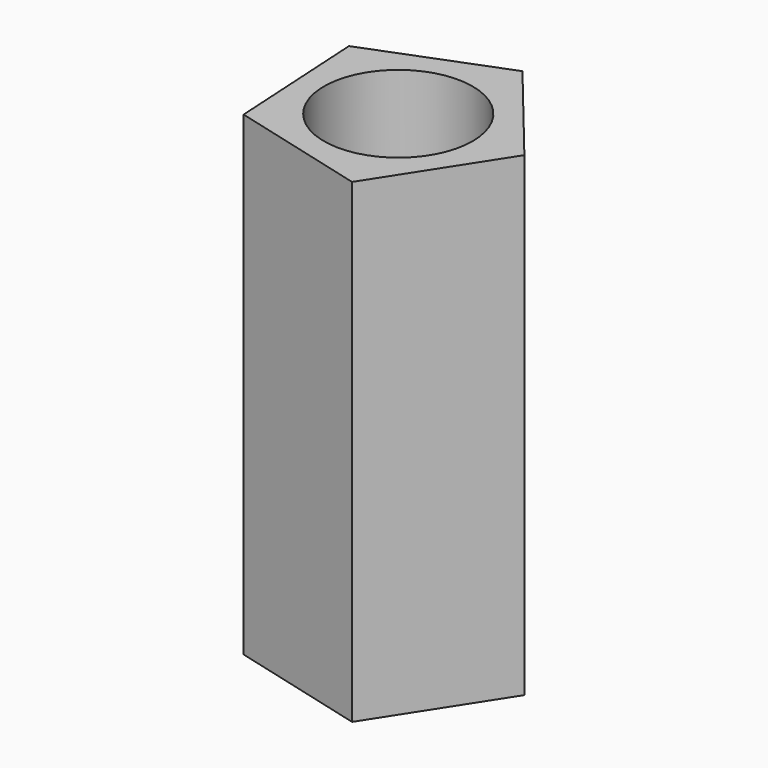
from build123d import *

# Parameters (mm, degrees)
F1_DEPTH = 263.144
F2_R     = 41.120828
F3_DEPTH = 274.574


with BuildPart() as f1:
    # F0 (on Top) → F1 (new body)
    with BuildSketch(Plane.XY):
        Polygon((24.252785, -62.30541), (66.750489, 3.812339), (17.001286, 64.661565), (-56.243116, 36.150706), (-51.761443, -42.3192), align=None)
    extrude(amount=F1_DEPTH)

    # F2 (on face) → F3 (cut)
    with BuildSketch(Plane.XY.offset(263.144)):
        Circle(F2_R)
    extrude(amount=-F3_DEPTH, mode=Mode.SUBTRACT)


solid = f1.part
